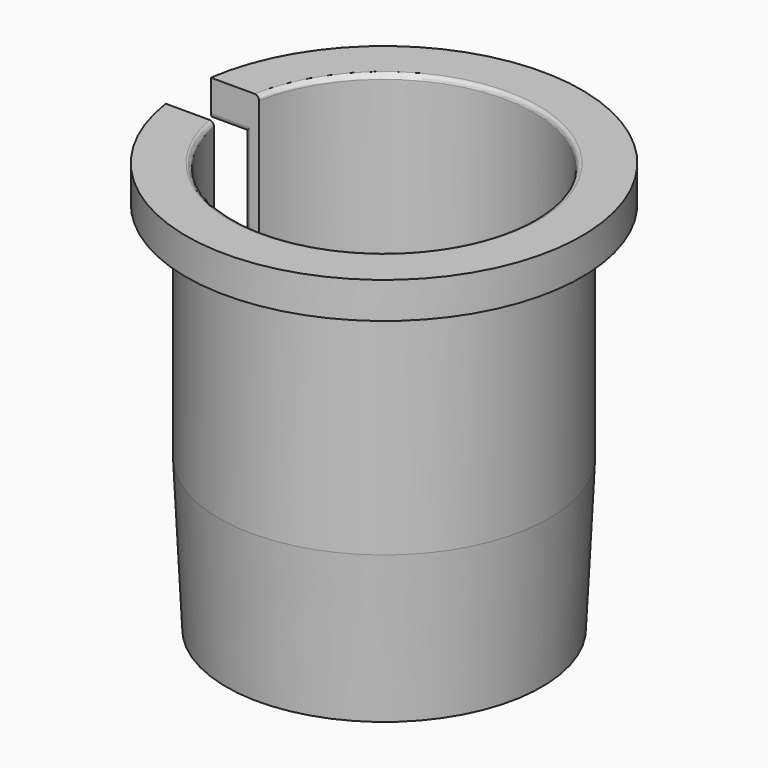
from build123d import *

# Parameters (mm, degrees)
F2_W     = 25.146
F2_H     = 4.7498
F3_DEPTH = 34.6974
F4_R     = 0.381


with BuildPart() as f1:
    # F0 (on Right) → F1 (revolve)
    with BuildSketch(Plane.YZ):
        Polygon((-12.6492, 0.1524), (-12.6492, 34.6964), (-16.6624, 34.6964), (-16.6624, 31.6484), (-13.8938, 31.6484), (-13.8938, 12.8524), (-13.2842, 0.1524), align=None)
    revolve(axis=Axis((0, 0, 4.6482), (0, 0, -1)))

    # F2 (on Top) → F3 (cut, through all)
    with BuildSketch(Plane.XY):
        with Locations((-12.827, 0)):
            Rectangle(F2_W, F2_H)
    extrude(amount=F3_DEPTH, mode=Mode.SUBTRACT)

    # F4
    f4_edges = [f1.edges().sort_by_distance(p)[0] for p in [
        (-13.379864, -2.3749, 6.502395),
        (-13.689322, -2.3749, 22.2504),
        (-13.379864, 2.3749, 6.502395),
        (-13.689322, 2.3749, 22.2504),
        (-15.090803, -2.3749, 31.6484),
        (-15.090803, 2.3749, 31.6484),
        (12.6492, 0, 34.6964),
        (13.8938, 0, 12.8524),
    ]]
    fillet(f4_edges, radius=F4_R)


solid = f1.part
